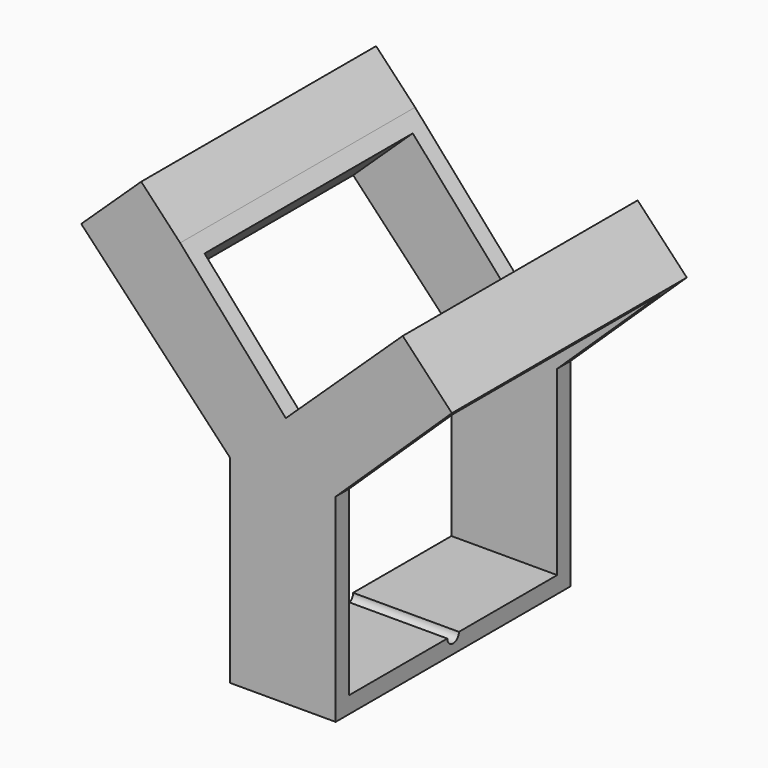
from build123d import *

# Parameters (mm, degrees)
F0_W     = 16.1053412664
F0_H     = 30.2006552678
F1_DEPTH = 44.704
F2_T     = -2.54
F3_DEPTH = 8.636
F5_DEPTH = 25.4


with BuildPart() as f1:
    # F0 (on Front) → F1 (new body)
    with BuildSketch(Plane.XZ):
        Polygon((-87.6387814232, 42.9285356432), (-103.7184670568, 61.1999630928), (-112.852960825, 52.5708459318), (-96.1492801466, 34.8888902675), align=None)
        Polygon((-80.0439388802, 34.8888902675), (-87.6387814232, 42.9285356432), (-96.1492801466, 34.8888902675), align=None)
        Polygon((-69.8299892996, 59.7520354048), (-87.6387814232, 42.9285356432), (-80.0439388802, 34.8888902675), (-62.3481592001, 51.8320212083), align=None)
        with Locations((-88.0966095134, 19.7885626337)):
            Rectangle(F0_W, F0_H)
        Polygon((-87.6387814232, 42.9285356432), (-103.7184670568, 61.1999630928), (-112.852960825, 52.5708459318), (-96.1492801466, 34.8888902675), align=None)
    extrude(amount=F1_DEPTH)

    # F2
    f2_openings = [f1.faces().sort_by_distance(p)[0] for p in [
        (-104.50112, -22.352, 43.729868),
        (-96.14928, -22.352, 19.788563),
        (-80.043939, -22.352, 19.788563),
        (-71.196049, -22.352, 43.360456),
        (-95.678624, -22.352, 52.064249),
        (-78.734385, -22.352, 51.340286),
    ]]
    offset(amount=F2_T, openings=f2_openings)

    # F3 (add): a face of the model
    f3_faces = [f1.faces().sort_by_distance(p)[0] for p in [
        (-108.2857139409, -22.352, 56.8854045123),
    ]]
    extrude(f3_faces, amount=F3_DEPTH)

    # F4 (on face) → F5 (cut)
    with BuildSketch(Plane(origin=(-96.1492801466, 0, 0), x_dir=(0, -1, 0), z_dir=(-1, 0, 0))):
        with BuildLine():
            ThreePointArc((21.2460036068, 7.2282349998), (22.352, 6.1222386066), (23.4579963932, 7.2282349998))
            Line((23.4579963932, 7.2282349998), (21.2460036068, 7.2282349998))
        make_face()
    extrude(amount=-F5_DEPTH, mode=Mode.SUBTRACT)


solid = f1.part
